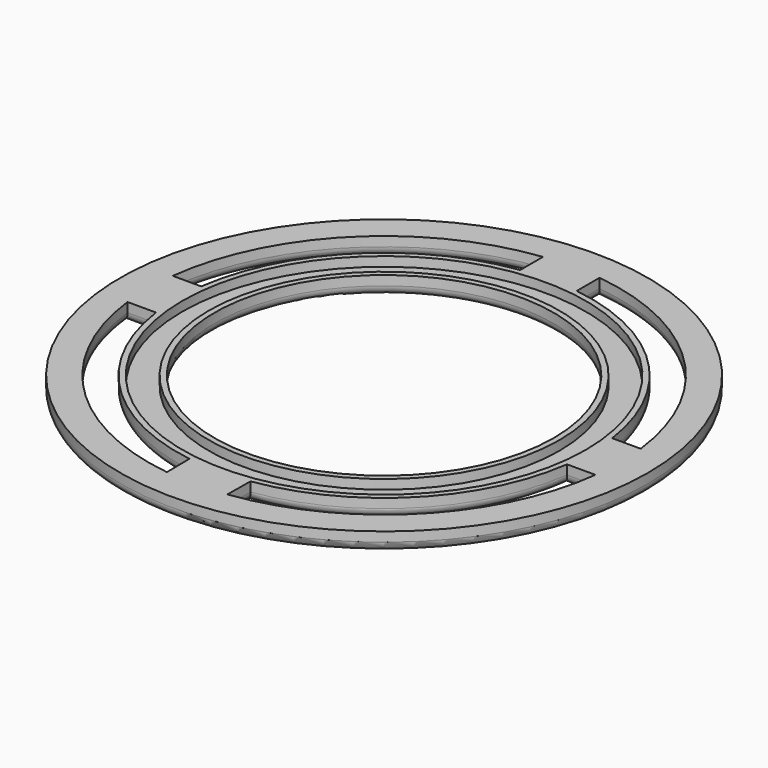
from build123d import *

# Parameters (mm, degrees)
F0_R     = 70
F0_R_2   = 53.5
F0_R_3   = 46.5
F0_R_4   = 45
F1_DEPTH = 5
F2_DEPTH = 2.5
F4_R     = 2.5


with BuildPart() as f1:
    # F0 (on Top) → F1 (new body)
    with BuildSketch(Plane.XY):
        Circle(F0_R)
        with BuildLine():
            ThreePointArc((-8.012821, -61.98423), (-44.376518, -44.011074), (-62.048368, -7.5))
            Line((-62.048368, -7.5), (-54.486237, -7.5))
            ThreePointArc((-54.486237, -7.5), (-39.100398, -38.680213), (-8.088235, -54.402026))
            Line((-8.088235, -54.402026), (-8.012821, -61.98423))
        make_face(mode=Mode.SUBTRACT)
        with BuildLine():
            ThreePointArc((62.048368, -7.5), (44.376518, -44.011074), (8.012821, -61.98423))
            Line((8.012821, -61.98423), (8.088235, -54.402026))
            ThreePointArc((8.088235, -54.402026), (39.100398, -38.680213), (54.486237, -7.5))
            Line((54.486237, -7.5), (62.048368, -7.5))
        make_face(mode=Mode.SUBTRACT)
        with BuildLine():
            ThreePointArc((-62.048368, 7.5), (-44.194174, 44.194174), (-7.5, 62.048368))
            Line((-7.5, 62.048368), (-7.5, 54.486237))
            ThreePointArc((-7.5, 54.486237), (-38.890873, 38.890873), (-54.486237, 7.5))
            Line((-54.486237, 7.5), (-62.048368, 7.5))
        make_face(mode=Mode.SUBTRACT)
        Circle(F0_R_2, mode=Mode.SUBTRACT)
        with BuildLine():
            Line((7.5, 54.486237), (7.5, 62.048368))
            ThreePointArc((7.5, 62.048368), (44.194174, 44.194174), (62.048368, 7.5))
            Line((62.048368, 7.5), (54.486237, 7.5))
            ThreePointArc((54.486237, 7.5), (38.890873, 38.890873), (7.5, 54.486237))
        make_face(mode=Mode.SUBTRACT)
        Circle(F0_R_3)
        Circle(F0_R_4, mode=Mode.SUBTRACT)
    extrude(amount=F1_DEPTH)


with BuildPart() as f2:
    # F0 (on Top) → F2 (new body)
    with BuildSketch(Plane.XY):
        Circle(F0_R_2)
        Circle(F0_R_3, mode=Mode.SUBTRACT)
    extrude(amount=F2_DEPTH)


with BuildPart() as f1_1:
    add(f1.part)

    # F3: union F2
    add(f2.part)

    # F4
    f4_edges = [f1_1.edges().sort_by_distance(p)[0] for p in [
        (-70, 0, 0),
        (-44.376518, -44.011074, 0),
        (-58.267303, -7.5, 0),
        (-39.100398, -38.680213, 0),
        (-8.050528, -58.193128, 0),
        (39.100398, -38.680213, 0),
        (58.267303, -7.5, 0),
        (44.376518, -44.011074, 0),
        (8.050528, -58.193128, 0),
        (-44.194174, 44.194174, 0),
        (-7.5, 58.267303, 0),
        (-38.890873, 38.890873, 0),
        (-58.267303, 7.5, 0),
        (44.194174, 44.194174, 0),
        (58.267303, 7.5, 0),
        (38.890873, 38.890873, 0),
        (7.5, 58.267303, 0),
        (-45, 0, 0),
    ]]
    fillet(f4_edges, radius=F4_R)


solid = f1_1.part
